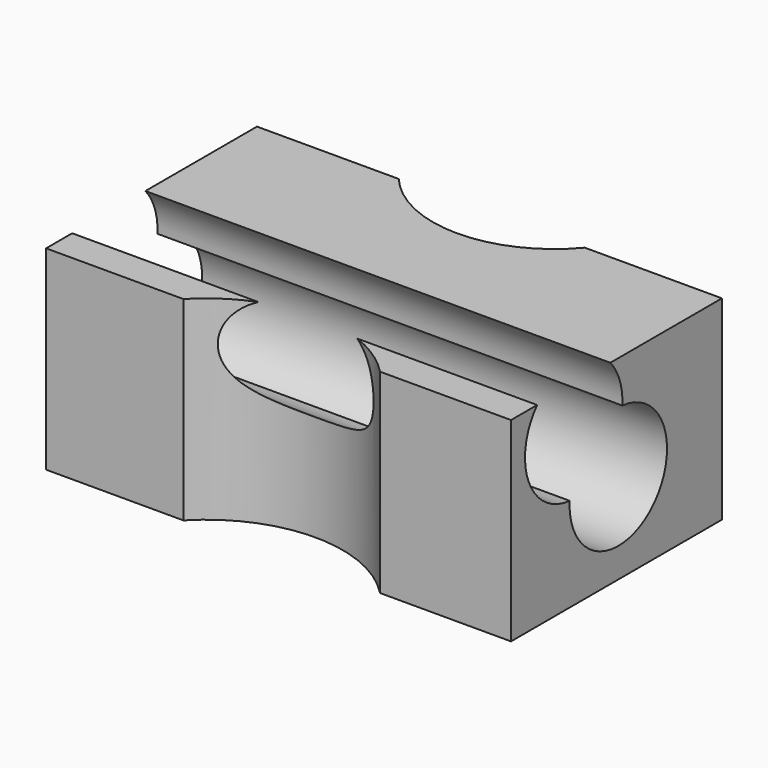
from build123d import *

# Parameters (mm, degrees)
F1_DEPTH   = 10.16
F4_D       = 6.35
F4_ON_F2_D = 6.35


with BuildPart() as f1:
    # F0 (on Top) → F1 (new body)
    with BuildSketch(Plane.XY):
        with BuildLine():
            Line((0, 13.7451505288), (0, 0))
            Line((0, 0), (7.1561528284, 0))
            ThreePointArc((7.1561528284, 0), (12.2831791104, 2.1876687498), (17.4102053924, 0))
            Line((17.4102053924, 0), (24.2389943451, 0))
            Line((24.2389943451, 0), (24.2389943451, 13.7451505288))
            Line((24.2389943451, 13.7451505288), (17.0903896092, 13.7451505288))
            ThreePointArc((17.0903896092, 13.7451505288), (12.240587268, 11.4840131173), (7.3907849269, 13.7451505288))
            Line((7.3907849269, 13.7451505288), (0, 13.7451505288))
        make_face()
    extrude(amount=F1_DEPTH)

    # F4 (through all)
    with Locations(Plane.YZ.offset(24.2389943451)):
        with Locations((4.0866504423, 8.0641144887)):
            Hole(F4_D / 2)

    # F4 on F2 (through all)
    with Locations(Plane(origin=(0, 0, 0), x_dir=(0, -1, 0), z_dir=(-1, 0, 0))):
        with Locations((-6.9927107543, 4.7133392654)):
            Hole(F4_ON_F2_D / 2)


solid = f1.part
